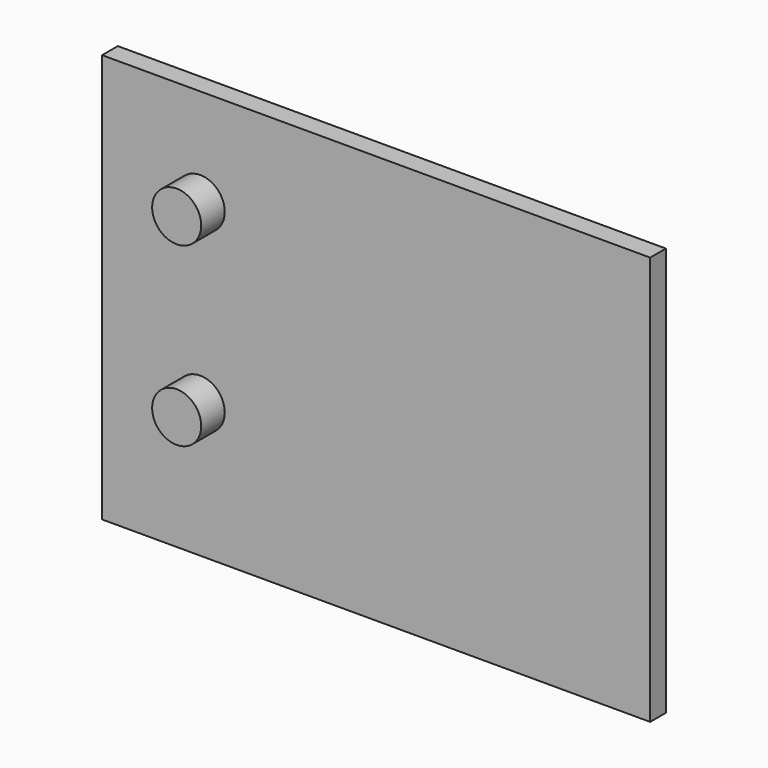
from build123d import *

# Parameters (mm, degrees)
F0_W     = 558.588586
F0_H     = 416.62195
F0_R     = 25
F1_DEPTH = 20
F2_DEPTH = 30


with BuildPart() as f1:
    # F0 (on Front) → F1 (new body)
    with BuildSketch(Plane.XZ):
        with Locations((3.22967, -56.169659)):
            Rectangle(F0_W, F0_H)
        with Locations((-176.064623, -127.858684)):
            Circle(F0_R, mode=Mode.SUBTRACT)
        with Locations((-176.064623, 52.141316)):
            Circle(F0_R, mode=Mode.SUBTRACT)
        with Locations((-176.064623, 52.141316)):
            Circle(F0_R)
        with Locations((-176.064623, -127.858684)):
            Circle(F0_R)
    extrude(amount=-F1_DEPTH)

    # F0 (on Front) → F2 (join)
    with BuildSketch(Plane.XZ):
        with Locations((-176.064623, 52.141316)):
            Circle(F0_R)
        with Locations((-176.064623, -127.858684)):
            Circle(F0_R)
    extrude(amount=F2_DEPTH)


solid = f1.part
